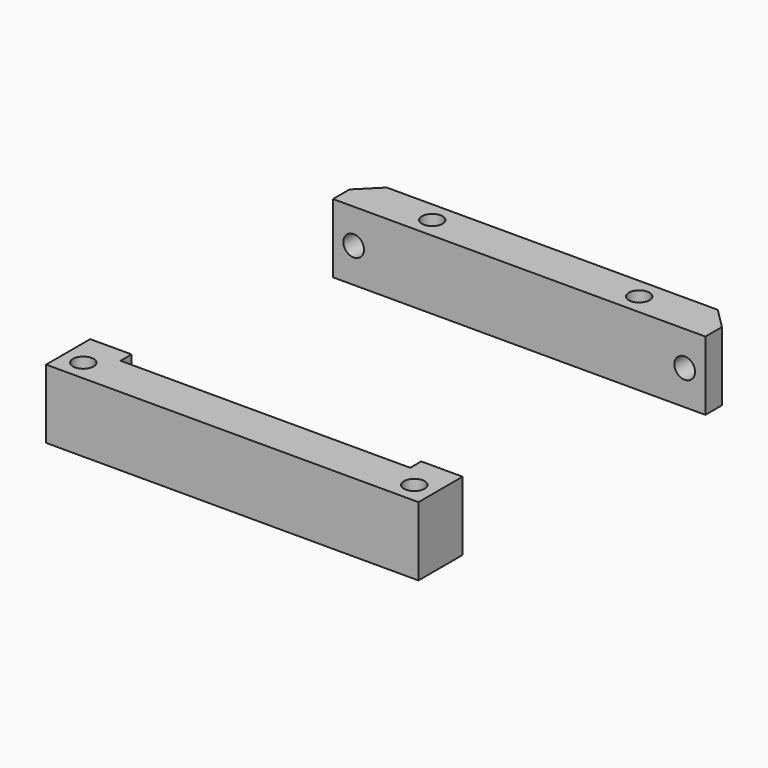
from build123d import *

# Parameters (mm, degrees)
CYLINDER2809_R     = 1.5
CYLINDER2809_DEPTH = 50
CYLINDER2807_R     = 1.5
CYLINDER2807_DEPTH = 50
CYLINDER2806_R     = 3
CYLINDER2806_DEPTH = 3
CYLINDER2803_R     = 3
CYLINDER2803_DEPTH = 3
CYLINDER2810_R     = 1.5
CYLINDER2810_DEPTH = 60
CYLINDER2805_R     = 1.5
CYLINDER2805_DEPTH = 60
CYLINDER2808_R     = 1.5
CYLINDER2808_DEPTH = 60
CYLINDER2804_R     = 1.5
CYLINDER2804_DEPTH = 60
BOX1004_W          = 56
BOX1004_H          = 44
BOX1004_DEPTH      = 10
BOX1002_W          = 42
BOX1002_H          = 46
BOX1002_DEPTH      = 50
BOX1003_W          = 54
BOX1003_H          = 58
BOX1003_DEPTH      = 10
CHAMFER147_SIZE    = 3


with BuildPart() as obj1:
    # Cylinder2809 → Cylinder2809 (new body)
    with BuildSketch(Plane(origin=(24, 140, 72), x_dir=(1, 0, 0), z_dir=(0, -1, 0))):
        Circle(CYLINDER2809_R)
    extrude(amount=CYLINDER2809_DEPTH)


with BuildPart() as compound1252:
    # Cylinder2807 → Cylinder2807 (new body)
    with BuildSketch(Plane(origin=(-24, 140, 72), x_dir=(1, 0, 0), z_dir=(0, -1, 0))):
        Circle(CYLINDER2807_R)
    extrude(amount=CYLINDER2807_DEPTH)

    # Compound1252: union obj1
    add(obj1.part)


with BuildPart() as compound1252_1:
    # Compound1252 placement: moved
    add(compound1252.part.moved(Location((0, 0, 8))))


with BuildPart() as obj2:
    # Cylinder2806 → Cylinder2806 (new body)
    with BuildSketch(Plane(origin=(24, 128, 72), x_dir=(1, 0, 0), z_dir=(0, -1, 0))):
        Circle(CYLINDER2806_R)
    extrude(amount=CYLINDER2806_DEPTH)


with BuildPart() as compound1250:
    # Cylinder2803 → Cylinder2803 (new body)
    with BuildSketch(Plane(origin=(-24, 128, 72), x_dir=(1, 0, 0), z_dir=(0, -1, 0))):
        Circle(CYLINDER2803_R)
    extrude(amount=CYLINDER2803_DEPTH)

    # Compound1250: union obj2
    add(obj2.part)


with BuildPart() as compound1250_1:
    # Compound1250 placement: moved
    add(compound1250.part.moved(Location((0, 0, 8))))


with BuildPart() as obj3:
    # Cylinder2810 → Cylinder2810 (new body)
    with BuildSketch(Plane(origin=(-24, 73, -80), x_dir=(1, 0, 0), z_dir=(0, 0, 1))):
        Circle(CYLINDER2810_R)
    extrude(amount=CYLINDER2810_DEPTH)


with BuildPart() as obj4:
    # Cylinder2805 → Cylinder2805 (new body)
    with BuildSketch(Plane(origin=(-15, 125, -80), x_dir=(1, 0, 0), z_dir=(0, 0, 1))):
        Circle(CYLINDER2805_R)
    extrude(amount=CYLINDER2805_DEPTH)


with BuildPart() as obj5:
    # Cylinder2808 → Cylinder2808 (new body)
    with BuildSketch(Plane(origin=(15, 125, -80), x_dir=(1, 0, 0), z_dir=(0, 0, 1))):
        Circle(CYLINDER2808_R)
    extrude(amount=CYLINDER2808_DEPTH)


with BuildPart() as compound1253:
    # Cylinder2804 → Cylinder2804 (new body)
    with BuildSketch(Plane(origin=(24, 73, -80), x_dir=(1, 0, 0), z_dir=(0, 0, 1))):
        Circle(CYLINDER2804_R)
    extrude(amount=CYLINDER2804_DEPTH)

    # Compound1253: union obj3, obj4, obj5
    add(obj3.part)
    add(obj4.part)
    add(obj5.part)


with BuildPart() as compound1253_1:
    # Compound1253 placement: moved
    add(compound1253.part.moved(Location((0, 0, 120))))


with BuildPart() as krychle1003:
    # Box1004 → Box1004 (new body)
    with BuildSketch(Plane(origin=(-28, 78, 75), x_dir=(1, 0, 0), z_dir=(0, 0, 1))):
        with Locations((28, 22)):
            Rectangle(BOX1004_W, BOX1004_H)
    extrude(amount=BOX1004_DEPTH)


with BuildPart() as krychle1001:
    # Box1002 → Box1002 (new body)
    with BuildSketch(Plane(origin=(-21, 76, 38), x_dir=(1, 0, 0), z_dir=(0, 0, 1))):
        with Locations((21, 23)):
            Rectangle(BOX1002_W, BOX1002_H)
    extrude(amount=BOX1002_DEPTH)


with BuildPart() as cut1065:
    # Box1003 → Box1003 (new body)
    with BuildSketch(Plane(origin=(-27, 70, 75), x_dir=(1, 0, 0), z_dir=(0, 0, 1))):
        with Locations((27, 29)):
            Rectangle(BOX1003_W, BOX1003_H)
    extrude(amount=BOX1003_DEPTH)

    # Cut1062: cut Krychle1001
    add(krychle1001.part, mode=Mode.SUBTRACT)

    # Cut1066: cut Krychle1003
    add(krychle1003.part, mode=Mode.SUBTRACT)

    # Cut1067: cut Compound1253
    add(compound1253_1.part, mode=Mode.SUBTRACT)

    # Chamfer147
    chamfer147_edges = [cut1065.edges().sort_by_distance(p)[0] for p in [
        (-27, 128, 80),
        (27, 128, 80),
    ]]
    chamfer(chamfer147_edges, length=CHAMFER147_SIZE)

    # Cut1064: cut Compound1250
    add(compound1250_1.part, mode=Mode.SUBTRACT)

    # Cut1065: cut Compound1252
    add(compound1252_1.part, mode=Mode.SUBTRACT)


solid = cut1065.part
